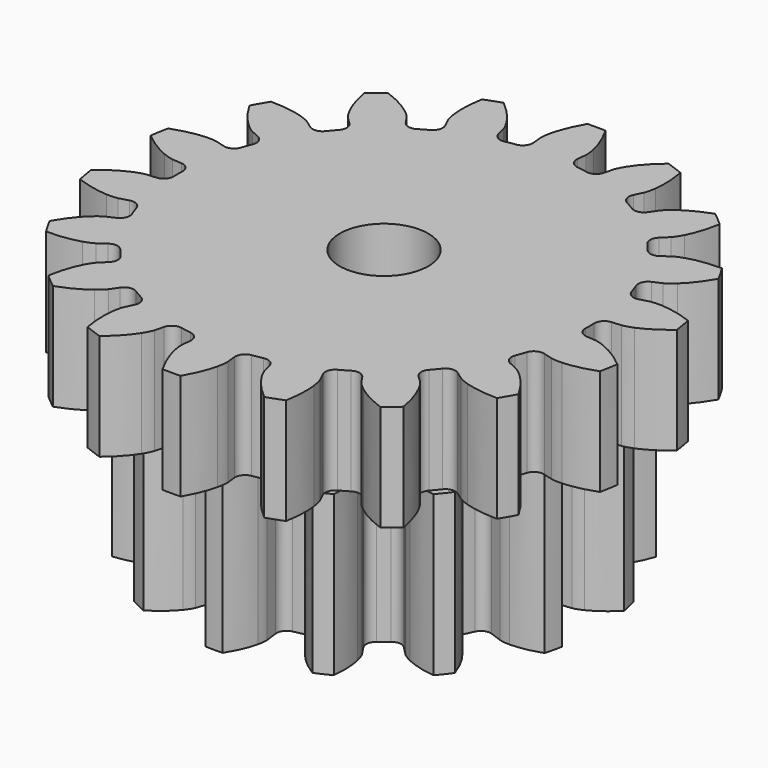
from build123d import *

# Parameters (mm, degrees)
PAD044_DEPTH            = 6
PAD045_DEPTH            = 9
SKETCH091_R             = 2.5
POCKET013_DEPTH         = 15.001
BODY022_PLACEMENT_ANGLE = 90


with BuildPart() as part:
    # Sketch089 → Pad044 (new body)
    with BuildSketch(Plane.XY):
        with BuildLine():
            Line((12.111023, -1.241717), (12.645761, -1.295402))
            add(Edge.make_bspline(
                [(12.645761, -1.295402), (12.714302, -1.298033), (12.920518, -1.29727), (13.264938, -1.221824)],
                knots=[0, 0, 0, 0, 1, 1, 1, 1], degree=3))
            add(Edge.make_bspline(
                [(13.264938, -1.221824), (13.676607, -1.130119), (14.26795, -0.932555), (14.993012, -0.510488)],
                knots=[0, 0, 0, 0, 1, 1, 1, 1], degree=3))
            ThreePointArc((14.993012, -0.510488), (15.001701, 0), (14.993012, 0.510488))
            add(Edge.make_bspline(
                [(14.993012, 0.510488), (14.26795, 0.932555), (13.676607, 1.130119), (13.264938, 1.221824)],
                knots=[0, 0, 0, 0, 1, 1, 1, 1], degree=3))
            add(Edge.make_bspline(
                [(13.264938, 1.221824), (12.920518, 1.29727), (12.714302, 1.298033), (12.645761, 1.295402)],
                knots=[0, 0, 0, 0, 1, 1, 1, 1], degree=3))
            Line((12.645761, 1.295402), (12.111023, 1.241717))
            ThreePointArc((12.111023, 1.241717), (11.708936, 1.356787), (11.497414, 1.717583))
            ThreePointArc((11.497414, 1.717583), (11.44839, 2.01866), (11.391483, 2.318347))
            ThreePointArc((11.391483, 2.318347), (11.46685, 2.729729), (11.805332, 2.975381))
            Line((11.805332, 2.975381), (12.326182, 3.107825))
            add(Edge.make_bspline(
                [(12.326182, 3.107825), (12.391489, 3.128796), (12.585008, 3.200042), (12.882853, 3.388737)],
                knots=[0, 0, 0, 0, 1, 1, 1, 1], degree=3))
            add(Edge.make_bspline(
                [(12.882853, 3.388737), (13.238331, 3.615711), (13.72644, 4.003611), (14.26342, 4.64821)],
                knots=[0, 0, 0, 0, 1, 1, 1, 1], degree=3))
            ThreePointArc((14.26342, 4.64821), (14.096988, 5.130884), (13.914226, 5.607614))
            add(Edge.make_bspline(
                [(13.914226, 5.607614), (13.088535, 5.756242), (12.465284, 5.73964), (12.047076, 5.685015)],
                knots=[0, 0, 0, 0, 1, 1, 1, 1], degree=3))
            add(Edge.make_bspline(
                [(12.047076, 5.685015), (11.697623, 5.638113), (11.503582, 5.568299), (11.440074, 5.542385)],
                knots=[0, 0, 0, 0, 1, 1, 1, 1], degree=3))
            Line((11.440074, 5.542385), (10.955947, 5.309046))
            ThreePointArc((10.955947, 5.309046), (10.538753, 5.279655), (10.216587, 5.546347))
            ThreePointArc((10.216587, 5.546347), (10.067545, 5.8125), (9.911571, 6.074651))
            ThreePointArc((9.911571, 6.074651), (9.841692, 6.487), (10.075743, 6.833605))
            Line((10.075743, 6.833605), (10.519883, 7.136202))
            add(Edge.make_bspline(
                [(10.519883, 7.136202), (10.57408, 7.178245), (10.73156, 7.311383), (10.946905, 7.590566)],
                knots=[0, 0, 0, 0, 1, 1, 1, 1], degree=3))
            add(Edge.make_bspline(
                [(10.946905, 7.590566), (11.203316, 7.925433), (11.529319, 8.456883), (11.813449, 9.246266)],
                knots=[0, 0, 0, 0, 1, 1, 1, 1], degree=3))
            ThreePointArc((11.813449, 9.246266), (11.49197, 9.642908), (11.157178, 10.028379))
            add(Edge.make_bspline(
                [(11.157178, 10.028379), (10.330449, 9.885641), (9.750463, 9.656875), (9.376159, 9.462509)],
                knots=[0, 0, 0, 0, 1, 1, 1, 1], degree=3))
            add(Edge.make_bspline(
                [(9.376159, 9.462509), (9.063822, 9.298916), (8.905361, 9.166947), (8.854546, 9.120874)],
                knots=[0, 0, 0, 0, 1, 1, 1, 1], degree=3))
            Line((8.854546, 9.120874), (8.479422, 8.736026))
            ThreePointArc((8.479422, 8.736026), (8.09744, 8.565718), (7.703489, 8.70614))
            ThreePointArc((7.703489, 8.70614), (7.472406, 8.905267), (7.236177, 9.098261))
            ThreePointArc((7.236177, 9.098261), (7.02948, 9.461843), (7.13087, 9.867595))
            Line((7.13087, 9.867595), (7.444732, 10.303849))
            add(Edge.make_bspline(
                [(7.444732, 10.303849), (7.48128, 10.361892), (7.583728, 10.540862), (7.690599, 10.876861)],
                knots=[0, 0, 0, 0, 1, 1, 1, 1], degree=3))
            add(Edge.make_bspline(
                [(7.690599, 10.876861), (7.817015, 11.27923), (7.941592, 11.89013), (7.938602, 12.729085)],
                knots=[0, 0, 0, 0, 1, 1, 1, 1], degree=3))
            ThreePointArc((7.938602, 12.729085), (7.500851, 12.991854), (7.05441, 13.239573))
            add(Edge.make_bspline(
                [(7.05441, 13.239573), (6.326359, 12.822685), (5.859592, 12.409349), (5.574338, 12.098685)],
                knots=[0, 0, 0, 0, 1, 1, 1, 1], degree=3))
            add(Edge.make_bspline(
                [(5.574338, 12.098685), (5.33679, 11.838132), (5.233022, 11.659925), (5.201029, 11.599251)],
                knots=[0, 0, 0, 0, 1, 1, 1, 1], degree=3))
            Line((5.201029, 11.599251), (4.980153, 11.109313))
            ThreePointArc((4.980153, 11.109313), (4.679456, 10.81863), (4.261237, 10.815844))
            ThreePointArc((4.261237, 10.815844), (3.975984, 10.923927), (3.687994, 11.024488))
            ThreePointArc((3.687994, 11.024488), (3.36941, 11.295448), (3.32591, 11.711408))
            Line((3.32591, 11.711408), (3.471636, 12.228699))
            add(Edge.make_bspline(
                [(3.471636, 12.228699), (3.486128, 12.295742), (3.521186, 12.498958), (3.506694, 12.851246)],
                knots=[0, 0, 0, 0, 1, 1, 1, 1], degree=3))
            add(Edge.make_bspline(
                [(3.506694, 12.851246), (3.487868, 13.272586), (3.395991, 13.889252), (3.106242, 14.676589)],
                knots=[0, 0, 0, 0, 1, 1, 1, 1], degree=3))
            ThreePointArc((3.106242, 14.676589), (2.605018, 14.773792), (2.100777, 14.85388))
            add(Edge.make_bspline(
                [(2.100777, 14.85388), (1.559216, 14.213125), (1.261968, 13.665072), (1.100171, 13.275581)],
                knots=[0, 0, 0, 0, 1, 1, 1, 1], degree=3))
            add(Edge.make_bspline(
                [(1.100171, 13.275581), (0.966063, 12.949495), (0.929503, 12.746544), (0.920191, 12.678587)],
                knots=[0, 0, 0, 0, 1, 1, 1, 1], degree=3))
            Line((0.920191, 12.678587), (0.880204, 12.142652))
            ThreePointArc((0.880204, 12.142652), (0.697061, 11.766655), (0.305016, 11.620998))
            ThreePointArc((0.305016, 11.620998), (0, 11.625), (-0.305016, 11.620998))
            ThreePointArc((-0.305016, 11.620998), (-0.697061, 11.766655), (-0.880204, 12.142652))
            Line((-0.880204, 12.142652), (-0.920191, 12.678587))
            add(Edge.make_bspline(
                [(-0.920191, 12.678587), (-0.929503, 12.746544), (-0.966063, 12.949495), (-1.100171, 13.275581)],
                knots=[0, 0, 0, 0, 1, 1, 1, 1], degree=3))
            add(Edge.make_bspline(
                [(-1.100171, 13.275581), (-1.261968, 13.665072), (-1.559216, 14.213125), (-2.100777, 14.85388)],
                knots=[0, 0, 0, 0, 1, 1, 1, 1], degree=3))
            ThreePointArc((-2.100777, 14.85388), (-2.605018, 14.773792), (-3.106242, 14.676589))
            add(Edge.make_bspline(
                [(-3.106242, 14.676589), (-3.395991, 13.889252), (-3.487868, 13.272586), (-3.506694, 12.851246)],
                knots=[0, 0, 0, 0, 1, 1, 1, 1], degree=3))
            add(Edge.make_bspline(
                [(-3.506694, 12.851246), (-3.521186, 12.498958), (-3.486128, 12.295742), (-3.471636, 12.228699)],
                knots=[0, 0, 0, 0, 1, 1, 1, 1], degree=3))
            Line((-3.471636, 12.228699), (-3.32591, 11.711408))
            ThreePointArc((-3.32591, 11.711408), (-3.36941, 11.295448), (-3.687994, 11.024488))
            ThreePointArc((-3.687994, 11.024488), (-3.975984, 10.923927), (-4.261237, 10.815844))
            ThreePointArc((-4.261237, 10.815844), (-4.679456, 10.81863), (-4.980153, 11.109313))
            Line((-4.980153, 11.109313), (-5.201029, 11.599251))
            add(Edge.make_bspline(
                [(-5.201029, 11.599251), (-5.233022, 11.659925), (-5.33679, 11.838132), (-5.574338, 12.098685)],
                knots=[0, 0, 0, 0, 1, 1, 1, 1], degree=3))
            add(Edge.make_bspline(
                [(-5.574338, 12.098685), (-5.859592, 12.409349), (-6.326359, 12.822685), (-7.05441, 13.239573)],
                knots=[0, 0, 0, 0, 1, 1, 1, 1], degree=3))
            ThreePointArc((-7.05441, 13.239573), (-7.500851, 12.991854), (-7.938602, 12.729085))
            add(Edge.make_bspline(
                [(-7.938602, 12.729085), (-7.941592, 11.89013), (-7.817015, 11.27923), (-7.690599, 10.876861)],
                knots=[0, 0, 0, 0, 1, 1, 1, 1], degree=3))
            add(Edge.make_bspline(
                [(-7.690599, 10.876861), (-7.583728, 10.540862), (-7.48128, 10.361892), (-7.444732, 10.303849)],
                knots=[0, 0, 0, 0, 1, 1, 1, 1], degree=3))
            Line((-7.444732, 10.303849), (-7.13087, 9.867595))
            ThreePointArc((-7.13087, 9.867595), (-7.02948, 9.461843), (-7.236177, 9.098261))
            ThreePointArc((-7.236177, 9.098261), (-7.472406, 8.905267), (-7.703489, 8.70614))
            ThreePointArc((-7.703489, 8.70614), (-8.09744, 8.565718), (-8.479422, 8.736026))
            Line((-8.479422, 8.736026), (-8.854546, 9.120874))
            add(Edge.make_bspline(
                [(-8.854546, 9.120874), (-8.905361, 9.166947), (-9.063822, 9.298916), (-9.376159, 9.462509)],
                knots=[0, 0, 0, 0, 1, 1, 1, 1], degree=3))
            add(Edge.make_bspline(
                [(-9.376159, 9.462509), (-9.750463, 9.656875), (-10.330449, 9.885641), (-11.157178, 10.028379)],
                knots=[0, 0, 0, 0, 1, 1, 1, 1], degree=3))
            ThreePointArc((-11.157178, 10.028379), (-11.49197, 9.642908), (-11.813449, 9.246266))
            add(Edge.make_bspline(
                [(-11.813449, 9.246266), (-11.529319, 8.456883), (-11.203316, 7.925433), (-10.946905, 7.590566)],
                knots=[0, 0, 0, 0, 1, 1, 1, 1], degree=3))
            add(Edge.make_bspline(
                [(-10.946905, 7.590566), (-10.73156, 7.311383), (-10.57408, 7.178245), (-10.519883, 7.136202)],
                knots=[0, 0, 0, 0, 1, 1, 1, 1], degree=3))
            Line((-10.519883, 7.136202), (-10.075743, 6.833605))
            ThreePointArc((-10.075743, 6.833605), (-9.841692, 6.487), (-9.911571, 6.074651))
            ThreePointArc((-9.911571, 6.074651), (-10.067545, 5.8125), (-10.216587, 5.546347))
            ThreePointArc((-10.216587, 5.546347), (-10.538753, 5.279655), (-10.955947, 5.309046))
            Line((-10.955947, 5.309046), (-11.440074, 5.542385))
            add(Edge.make_bspline(
                [(-11.440074, 5.542385), (-11.503582, 5.568299), (-11.697623, 5.638113), (-12.047076, 5.685015)],
                knots=[0, 0, 0, 0, 1, 1, 1, 1], degree=3))
            add(Edge.make_bspline(
                [(-12.047076, 5.685015), (-12.465284, 5.73964), (-13.088535, 5.756242), (-13.914226, 5.607614)],
                knots=[0, 0, 0, 0, 1, 1, 1, 1], degree=3))
            ThreePointArc((-13.914226, 5.607614), (-14.096988, 5.130884), (-14.26342, 4.64821))
            add(Edge.make_bspline(
                [(-14.26342, 4.64821), (-13.72644, 4.003611), (-13.238331, 3.615711), (-12.882853, 3.388737)],
                knots=[0, 0, 0, 0, 1, 1, 1, 1], degree=3))
            add(Edge.make_bspline(
                [(-12.882853, 3.388737), (-12.585008, 3.200042), (-12.391489, 3.128796), (-12.326182, 3.107825)],
                knots=[0, 0, 0, 0, 1, 1, 1, 1], degree=3))
            Line((-12.326182, 3.107825), (-11.805332, 2.975381))
            ThreePointArc((-11.805332, 2.975381), (-11.46685, 2.729729), (-11.391483, 2.318347))
            ThreePointArc((-11.391483, 2.318347), (-11.44839, 2.01866), (-11.497414, 1.717583))
            ThreePointArc((-11.497414, 1.717583), (-11.708936, 1.356787), (-12.111023, 1.241717))
            Line((-12.111023, 1.241717), (-12.645761, 1.295402))
            add(Edge.make_bspline(
                [(-12.645761, 1.295402), (-12.714302, 1.298033), (-12.920518, 1.29727), (-13.264938, 1.221824)],
                knots=[0, 0, 0, 0, 1, 1, 1, 1], degree=3))
            add(Edge.make_bspline(
                [(-13.264938, 1.221824), (-13.676607, 1.130119), (-14.26795, 0.932555), (-14.993012, 0.510488)],
                knots=[0, 0, 0, 0, 1, 1, 1, 1], degree=3))
            ThreePointArc((-14.993012, 0.510488), (-15.001701, 0), (-14.993012, -0.510488))
            add(Edge.make_bspline(
                [(-14.993012, -0.510488), (-14.26795, -0.932555), (-13.676607, -1.130119), (-13.264938, -1.221824)],
                knots=[0, 0, 0, 0, 1, 1, 1, 1], degree=3))
            add(Edge.make_bspline(
                [(-13.264938, -1.221824), (-12.920518, -1.29727), (-12.714302, -1.298033), (-12.645761, -1.295402)],
                knots=[0, 0, 0, 0, 1, 1, 1, 1], degree=3))
            Line((-12.645761, -1.295402), (-12.111023, -1.241717))
            ThreePointArc((-12.111023, -1.241717), (-11.708936, -1.356787), (-11.497414, -1.717583))
            ThreePointArc((-11.497414, -1.717583), (-11.44839, -2.01866), (-11.391483, -2.318347))
            ThreePointArc((-11.391483, -2.318347), (-11.46685, -2.729729), (-11.805332, -2.975381))
            Line((-11.805332, -2.975381), (-12.326182, -3.107825))
            add(Edge.make_bspline(
                [(-12.326182, -3.107825), (-12.391489, -3.128796), (-12.585008, -3.200042), (-12.882853, -3.388737)],
                knots=[0, 0, 0, 0, 1, 1, 1, 1], degree=3))
            add(Edge.make_bspline(
                [(-12.882853, -3.388737), (-13.238331, -3.615711), (-13.72644, -4.003611), (-14.26342, -4.64821)],
                knots=[0, 0, 0, 0, 1, 1, 1, 1], degree=3))
            ThreePointArc((-14.26342, -4.64821), (-14.096988, -5.130884), (-13.914226, -5.607614))
            add(Edge.make_bspline(
                [(-13.914226, -5.607614), (-13.088535, -5.756242), (-12.465284, -5.73964), (-12.047076, -5.685015)],
                knots=[0, 0, 0, 0, 1, 1, 1, 1], degree=3))
            add(Edge.make_bspline(
                [(-12.047076, -5.685015), (-11.697623, -5.638113), (-11.503582, -5.568299), (-11.440074, -5.542385)],
                knots=[0, 0, 0, 0, 1, 1, 1, 1], degree=3))
            Line((-11.440074, -5.542385), (-10.955947, -5.309046))
            ThreePointArc((-10.955947, -5.309046), (-10.538753, -5.279655), (-10.216587, -5.546347))
            ThreePointArc((-10.216587, -5.546347), (-10.067545, -5.8125), (-9.911571, -6.074651))
            ThreePointArc((-9.911571, -6.074651), (-9.841692, -6.487), (-10.075743, -6.833605))
            Line((-10.075743, -6.833605), (-10.519883, -7.136202))
            add(Edge.make_bspline(
                [(-10.519883, -7.136202), (-10.57408, -7.178245), (-10.73156, -7.311383), (-10.946905, -7.590566)],
                knots=[0, 0, 0, 0, 1, 1, 1, 1], degree=3))
            add(Edge.make_bspline(
                [(-10.946905, -7.590566), (-11.203316, -7.925433), (-11.529319, -8.456883), (-11.813449, -9.246266)],
                knots=[0, 0, 0, 0, 1, 1, 1, 1], degree=3))
            ThreePointArc((-11.813449, -9.246266), (-11.49197, -9.642908), (-11.157178, -10.028379))
            add(Edge.make_bspline(
                [(-11.157178, -10.028379), (-10.330449, -9.885641), (-9.750463, -9.656875), (-9.376159, -9.462509)],
                knots=[0, 0, 0, 0, 1, 1, 1, 1], degree=3))
            add(Edge.make_bspline(
                [(-9.376159, -9.462509), (-9.063822, -9.298916), (-8.905361, -9.166947), (-8.854546, -9.120874)],
                knots=[0, 0, 0, 0, 1, 1, 1, 1], degree=3))
            Line((-8.854546, -9.120874), (-8.479422, -8.736026))
            ThreePointArc((-8.479422, -8.736026), (-8.09744, -8.565718), (-7.703489, -8.70614))
            ThreePointArc((-7.703489, -8.70614), (-7.472406, -8.905267), (-7.236177, -9.098261))
            ThreePointArc((-7.236177, -9.098261), (-7.02948, -9.461843), (-7.13087, -9.867595))
            Line((-7.13087, -9.867595), (-7.444732, -10.303849))
            add(Edge.make_bspline(
                [(-7.444732, -10.303849), (-7.48128, -10.361892), (-7.583728, -10.540862), (-7.690599, -10.876861)],
                knots=[0, 0, 0, 0, 1, 1, 1, 1], degree=3))
            add(Edge.make_bspline(
                [(-7.690599, -10.876861), (-7.817015, -11.27923), (-7.941592, -11.89013), (-7.938602, -12.729085)],
                knots=[0, 0, 0, 0, 1, 1, 1, 1], degree=3))
            ThreePointArc((-7.938602, -12.729085), (-7.500851, -12.991854), (-7.05441, -13.239573))
            add(Edge.make_bspline(
                [(-7.05441, -13.239573), (-6.326359, -12.822685), (-5.859592, -12.409349), (-5.574338, -12.098685)],
                knots=[0, 0, 0, 0, 1, 1, 1, 1], degree=3))
            add(Edge.make_bspline(
                [(-5.574338, -12.098685), (-5.33679, -11.838132), (-5.233022, -11.659925), (-5.201029, -11.599251)],
                knots=[0, 0, 0, 0, 1, 1, 1, 1], degree=3))
            Line((-5.201029, -11.599251), (-4.980153, -11.109313))
            ThreePointArc((-4.980153, -11.109313), (-4.679456, -10.81863), (-4.261237, -10.815844))
            ThreePointArc((-4.261237, -10.815844), (-3.975984, -10.923927), (-3.687994, -11.024488))
            ThreePointArc((-3.687994, -11.024488), (-3.36941, -11.295448), (-3.32591, -11.711408))
            Line((-3.32591, -11.711408), (-3.471636, -12.228699))
            add(Edge.make_bspline(
                [(-3.471636, -12.228699), (-3.486128, -12.295742), (-3.521186, -12.498958), (-3.506694, -12.851246)],
                knots=[0, 0, 0, 0, 1, 1, 1, 1], degree=3))
            add(Edge.make_bspline(
                [(-3.506694, -12.851246), (-3.487868, -13.272586), (-3.395991, -13.889252), (-3.106242, -14.676589)],
                knots=[0, 0, 0, 0, 1, 1, 1, 1], degree=3))
            ThreePointArc((-3.106242, -14.676589), (-2.605018, -14.773792), (-2.100777, -14.85388))
            add(Edge.make_bspline(
                [(-2.100777, -14.85388), (-1.559216, -14.213125), (-1.261968, -13.665072), (-1.100171, -13.275581)],
                knots=[0, 0, 0, 0, 1, 1, 1, 1], degree=3))
            add(Edge.make_bspline(
                [(-1.100171, -13.275581), (-0.966063, -12.949495), (-0.929503, -12.746544), (-0.920191, -12.678587)],
                knots=[0, 0, 0, 0, 1, 1, 1, 1], degree=3))
            Line((-0.920191, -12.678587), (-0.880204, -12.142652))
            ThreePointArc((-0.880204, -12.142652), (-0.697061, -11.766655), (-0.305016, -11.620998))
            ThreePointArc((-0.305016, -11.620998), (0, -11.625), (0.305016, -11.620998))
            ThreePointArc((0.305016, -11.620998), (0.697061, -11.766655), (0.880204, -12.142652))
            Line((0.880204, -12.142652), (0.920191, -12.678587))
            add(Edge.make_bspline(
                [(0.920191, -12.678587), (0.929503, -12.746544), (0.966063, -12.949495), (1.100171, -13.275581)],
                knots=[0, 0, 0, 0, 1, 1, 1, 1], degree=3))
            add(Edge.make_bspline(
                [(1.100171, -13.275581), (1.261968, -13.665072), (1.559216, -14.213125), (2.100777, -14.85388)],
                knots=[0, 0, 0, 0, 1, 1, 1, 1], degree=3))
            ThreePointArc((2.100777, -14.85388), (2.605018, -14.773792), (3.106242, -14.676589))
            add(Edge.make_bspline(
                [(3.106242, -14.676589), (3.395991, -13.889252), (3.487868, -13.272586), (3.506694, -12.851246)],
                knots=[0, 0, 0, 0, 1, 1, 1, 1], degree=3))
            add(Edge.make_bspline(
                [(3.506694, -12.851246), (3.521186, -12.498958), (3.486128, -12.295742), (3.471636, -12.228699)],
                knots=[0, 0, 0, 0, 1, 1, 1, 1], degree=3))
            Line((3.471636, -12.228699), (3.32591, -11.711408))
            ThreePointArc((3.32591, -11.711408), (3.36941, -11.295448), (3.687994, -11.024488))
            ThreePointArc((3.687994, -11.024488), (3.975984, -10.923927), (4.261237, -10.815844))
            ThreePointArc((4.261237, -10.815844), (4.679456, -10.81863), (4.980153, -11.109313))
            Line((4.980153, -11.109313), (5.201029, -11.599251))
            add(Edge.make_bspline(
                [(5.201029, -11.599251), (5.233022, -11.659925), (5.33679, -11.838132), (5.574338, -12.098685)],
                knots=[0, 0, 0, 0, 1, 1, 1, 1], degree=3))
            add(Edge.make_bspline(
                [(5.574338, -12.098685), (5.859592, -12.409349), (6.326359, -12.822685), (7.05441, -13.239573)],
                knots=[0, 0, 0, 0, 1, 1, 1, 1], degree=3))
            ThreePointArc((7.05441, -13.239573), (7.500851, -12.991854), (7.938602, -12.729085))
            add(Edge.make_bspline(
                [(7.938602, -12.729085), (7.941592, -11.89013), (7.817015, -11.27923), (7.690599, -10.876861)],
                knots=[0, 0, 0, 0, 1, 1, 1, 1], degree=3))
            add(Edge.make_bspline(
                [(7.690599, -10.876861), (7.583728, -10.540862), (7.48128, -10.361892), (7.444732, -10.303849)],
                knots=[0, 0, 0, 0, 1, 1, 1, 1], degree=3))
            Line((7.444732, -10.303849), (7.13087, -9.867595))
            ThreePointArc((7.13087, -9.867595), (7.02948, -9.461843), (7.236177, -9.098261))
            ThreePointArc((7.236177, -9.098261), (7.472406, -8.905267), (7.703489, -8.70614))
            ThreePointArc((7.703489, -8.70614), (8.09744, -8.565718), (8.479422, -8.736026))
            Line((8.479422, -8.736026), (8.854546, -9.120874))
            add(Edge.make_bspline(
                [(8.854546, -9.120874), (8.905361, -9.166947), (9.063822, -9.298916), (9.376159, -9.462509)],
                knots=[0, 0, 0, 0, 1, 1, 1, 1], degree=3))
            add(Edge.make_bspline(
                [(9.376159, -9.462509), (9.750463, -9.656875), (10.330449, -9.885641), (11.157178, -10.028379)],
                knots=[0, 0, 0, 0, 1, 1, 1, 1], degree=3))
            ThreePointArc((11.157178, -10.028379), (11.49197, -9.642908), (11.813449, -9.246266))
            add(Edge.make_bspline(
                [(11.813449, -9.246266), (11.529319, -8.456883), (11.203316, -7.925433), (10.946905, -7.590566)],
                knots=[0, 0, 0, 0, 1, 1, 1, 1], degree=3))
            add(Edge.make_bspline(
                [(10.946905, -7.590566), (10.73156, -7.311383), (10.57408, -7.178245), (10.519883, -7.136202)],
                knots=[0, 0, 0, 0, 1, 1, 1, 1], degree=3))
            Line((10.519883, -7.136202), (10.075743, -6.833605))
            ThreePointArc((10.075743, -6.833605), (9.841692, -6.487), (9.911571, -6.074651))
            ThreePointArc((9.911571, -6.074651), (10.067545, -5.8125), (10.216587, -5.546347))
            ThreePointArc((10.216587, -5.546347), (10.538753, -5.279655), (10.955947, -5.309046))
            Line((10.955947, -5.309046), (11.440074, -5.542385))
            add(Edge.make_bspline(
                [(11.440074, -5.542385), (11.503582, -5.568299), (11.697623, -5.638113), (12.047076, -5.685015)],
                knots=[0, 0, 0, 0, 1, 1, 1, 1], degree=3))
            add(Edge.make_bspline(
                [(12.047076, -5.685015), (12.465284, -5.73964), (13.088535, -5.756242), (13.914226, -5.607614)],
                knots=[0, 0, 0, 0, 1, 1, 1, 1], degree=3))
            ThreePointArc((13.914226, -5.607614), (14.096988, -5.130884), (14.26342, -4.64821))
            add(Edge.make_bspline(
                [(14.26342, -4.64821), (13.72644, -4.003611), (13.238331, -3.615711), (12.882853, -3.388737)],
                knots=[0, 0, 0, 0, 1, 1, 1, 1], degree=3))
            add(Edge.make_bspline(
                [(12.882853, -3.388737), (12.585008, -3.200042), (12.391489, -3.128796), (12.326182, -3.107825)],
                knots=[0, 0, 0, 0, 1, 1, 1, 1], degree=3))
            Line((12.326182, -3.107825), (11.805332, -2.975381))
            ThreePointArc((11.805332, -2.975381), (11.46685, -2.729729), (11.391483, -2.318347))
            ThreePointArc((11.391483, -2.318347), (11.44839, -2.01866), (11.497414, -1.717583))
            ThreePointArc((11.497414, -1.717583), (11.708936, -1.356787), (12.111023, -1.241717))
        make_face()
    extrude(amount=PAD044_DEPTH)

    # Sketch090 → Pad045 (join)
    with BuildSketch(Plane.XY):
        with BuildLine():
            Line((9.096289, -1.162443), (9.811706, -1.252678))
            add(Edge.make_bspline(
                [(9.811706, -1.252678), (9.87581, -1.256332), (10.068436, -1.258424), (10.391274, -1.185875)],
                knots=[0, 0, 0, 0, 1, 1, 1, 1], degree=3))
            add(Edge.make_bspline(
                [(10.391274, -1.185875), (10.776249, -1.097479), (11.326447, -0.903676), (11.992147, -0.48357)],
                knots=[0, 0, 0, 0, 1, 1, 1, 1], degree=3))
            ThreePointArc((11.992147, -0.48357), (12.001894, 0), (11.992147, 0.48357))
            add(Edge.make_bspline(
                [(11.992147, 0.48357), (11.326447, 0.903676), (10.776249, 1.097479), (10.391274, 1.185875)],
                knots=[0, 0, 0, 0, 1, 1, 1, 1], degree=3))
            add(Edge.make_bspline(
                [(10.391274, 1.185875), (10.068436, 1.258424), (9.87581, 1.256332), (9.811706, 1.252678)],
                knots=[0, 0, 0, 0, 1, 1, 1, 1], degree=3))
            Line((9.811706, 1.252678), (9.096289, 1.162443))
            ThreePointArc((9.096289, 1.162443), (8.695055, 1.264826), (8.47262, 1.614103))
            ThreePointArc((8.47262, 1.614103), (8.408753, 1.919243), (8.3339, 2.221876))
            ThreePointArc((8.3339, 2.221876), (8.382761, 2.633074), (8.699838, 2.899407))
            Line((8.699838, 2.899407), (9.383559, 3.128515))
            add(Edge.make_bspline(
                [(9.383559, 3.128515), (9.442899, 3.153037), (9.617357, 3.23473), (9.876747, 3.440168)],
                knots=[0, 0, 0, 0, 1, 1, 1, 1], degree=3))
            add(Edge.make_bspline(
                [(9.876747, 3.440168), (10.185243, 3.686845), (10.596867, 4.100177), (11.014364, 4.767516)],
                knots=[0, 0, 0, 0, 1, 1, 1, 1], degree=3))
            ThreePointArc((11.014364, 4.767516), (10.813333, 5.207427), (10.594738, 5.638879))
            add(Edge.make_bspline(
                [(10.594738, 5.638879), (9.812686, 5.728546), (9.232886, 5.664434), (8.847683, 5.577042)],
                knots=[0, 0, 0, 0, 1, 1, 1, 1], degree=3))
            add(Edge.make_bspline(
                [(8.847683, 5.577042), (8.525338, 5.502331), (8.352695, 5.416869), (8.296525, 5.385764)],
                knots=[0, 0, 0, 0, 1, 1, 1, 1], degree=3))
            Line((8.296525, 5.385764), (7.691108, 4.994057))
            ThreePointArc((7.691108, 4.994057), (7.285186, 4.912211), (6.933234, 5.130389))
            ThreePointArc((6.933234, 5.130389), (6.743297, 5.3776), (6.544549, 5.617785))
            ThreePointArc((6.544549, 5.617785), (6.410158, 6.009462), (6.580278, 6.386994))
            Line((6.580278, 6.386994), (7.096882, 6.890069))
            add(Edge.make_bspline(
                [(7.096882, 6.890069), (7.139707, 6.937909), (7.261442, 7.087206), (7.406008, 7.384844)],
                knots=[0, 0, 0, 0, 1, 1, 1, 1], degree=3))
            add(Edge.make_bspline(
                [(7.406008, 7.384844), (7.576925, 7.740943), (7.768447, 8.29194), (7.855052, 9.074337)],
                knots=[0, 0, 0, 0, 1, 1, 1, 1], degree=3))
            ThreePointArc((7.855052, 9.074337), (7.483058, 9.383459), (7.098911, 9.677339))
            add(Edge.make_bspline(
                [(7.098911, 9.677339), (6.355402, 9.418806), (5.860837, 9.109478), (5.551699, 8.863607)],
                knots=[0, 0, 0, 0, 1, 1, 1, 1], degree=3))
            add(Edge.make_bspline(
                [(5.551699, 8.863607), (5.293692, 8.656435), (5.175227, 8.504529), (5.138115, 8.452133)],
                knots=[0, 0, 0, 0, 1, 1, 1, 1], degree=3))
            Line((5.138115, 8.452133), (4.762609, 7.836536))
            ThreePointArc((4.762609, 7.836536), (4.432397, 7.586673), (4.020636, 7.630538))
            ThreePointArc((4.020636, 7.630538), (3.742247, 7.770856), (3.458969, 7.901023))
            ThreePointArc((3.458969, 7.901023), (3.167945, 8.195601), (3.157412, 8.609558))
            Line((3.157412, 8.609558), (3.404581, 9.286959))
            add(Edge.make_bspline(
                [(3.404581, 9.286959), (3.422408, 9.348642), (3.46731, 9.535974), (3.468419, 9.866861)],
                knots=[0, 0, 0, 0, 1, 1, 1, 1], degree=3))
            add(Edge.make_bspline(
                [(3.468419, 9.866861), (3.467904, 10.261854), (3.401391, 10.841383), (3.13995, 11.583874)],
                knots=[0, 0, 0, 0, 1, 1, 1, 1], degree=3))
            ThreePointArc((3.13995, 11.583874), (2.670673, 11.700981), (2.197058, 11.799083))
            add(Edge.make_bspline(
                [(2.197058, 11.799083), (1.639352, 11.243557), (1.327978, 10.750278), (1.156133, 10.394626)],
                knots=[0, 0, 0, 0, 1, 1, 1, 1], degree=3))
            add(Edge.make_bspline(
                [(1.156133, 10.394626), (1.013565, 10.096025), (0.972741, 9.907763), (0.962039, 9.844453)],
                knots=[0, 0, 0, 0, 1, 1, 1, 1], degree=3))
            Line((0.962039, 9.844453), (0.890817, 9.126894))
            ThreePointArc((0.890817, 9.126894), (0.701718, 8.758502), (0.311702, 8.619366))
            ThreePointArc((0.311702, 8.619366), (0, 8.625), (-0.311702, 8.619366))
            ThreePointArc((-0.311702, 8.619366), (-0.701718, 8.758502), (-0.890817, 9.126894))
            Line((-0.890817, 9.126894), (-0.962039, 9.844453))
            add(Edge.make_bspline(
                [(-0.962039, 9.844453), (-0.972741, 9.907763), (-1.013565, 10.096025), (-1.156133, 10.394626)],
                knots=[0, 0, 0, 0, 1, 1, 1, 1], degree=3))
            add(Edge.make_bspline(
                [(-1.156133, 10.394626), (-1.327978, 10.750278), (-1.639352, 11.243557), (-2.197058, 11.799083)],
                knots=[0, 0, 0, 0, 1, 1, 1, 1], degree=3))
            ThreePointArc((-2.197058, 11.799083), (-2.670673, 11.700981), (-3.13995, 11.583874))
            add(Edge.make_bspline(
                [(-3.13995, 11.583874), (-3.401391, 10.841383), (-3.467904, 10.261854), (-3.468419, 9.866861)],
                knots=[0, 0, 0, 0, 1, 1, 1, 1], degree=3))
            add(Edge.make_bspline(
                [(-3.468419, 9.866861), (-3.46731, 9.535974), (-3.422408, 9.348642), (-3.404581, 9.286959)],
                knots=[0, 0, 0, 0, 1, 1, 1, 1], degree=3))
            Line((-3.404581, 9.286959), (-3.157412, 8.609558))
            ThreePointArc((-3.157412, 8.609558), (-3.167945, 8.195601), (-3.458969, 7.901023))
            ThreePointArc((-3.458969, 7.901023), (-3.742247, 7.770856), (-4.020636, 7.630538))
            ThreePointArc((-4.020636, 7.630538), (-4.432397, 7.586673), (-4.762609, 7.836536))
            Line((-4.762609, 7.836536), (-5.138115, 8.452133))
            add(Edge.make_bspline(
                [(-5.138115, 8.452133), (-5.175227, 8.504529), (-5.293692, 8.656435), (-5.551699, 8.863607)],
                knots=[0, 0, 0, 0, 1, 1, 1, 1], degree=3))
            add(Edge.make_bspline(
                [(-5.551699, 8.863607), (-5.860837, 9.109478), (-6.355402, 9.418806), (-7.098911, 9.677339)],
                knots=[0, 0, 0, 0, 1, 1, 1, 1], degree=3))
            ThreePointArc((-7.098911, 9.677339), (-7.483058, 9.383459), (-7.855052, 9.074337))
            add(Edge.make_bspline(
                [(-7.855052, 9.074337), (-7.768447, 8.29194), (-7.576925, 7.740943), (-7.406008, 7.384844)],
                knots=[0, 0, 0, 0, 1, 1, 1, 1], degree=3))
            add(Edge.make_bspline(
                [(-7.406008, 7.384844), (-7.261442, 7.087206), (-7.139707, 6.937909), (-7.096882, 6.890069)],
                knots=[0, 0, 0, 0, 1, 1, 1, 1], degree=3))
            Line((-7.096882, 6.890069), (-6.580278, 6.386994))
            ThreePointArc((-6.580278, 6.386994), (-6.410158, 6.009462), (-6.544549, 5.617785))
            ThreePointArc((-6.544549, 5.617785), (-6.743297, 5.3776), (-6.933234, 5.130389))
            ThreePointArc((-6.933234, 5.130389), (-7.285186, 4.912211), (-7.691108, 4.994057))
            Line((-7.691108, 4.994057), (-8.296525, 5.385764))
            add(Edge.make_bspline(
                [(-8.296525, 5.385764), (-8.352695, 5.416869), (-8.525338, 5.502331), (-8.847683, 5.577042)],
                knots=[0, 0, 0, 0, 1, 1, 1, 1], degree=3))
            add(Edge.make_bspline(
                [(-8.847683, 5.577042), (-9.232886, 5.664434), (-9.812686, 5.728546), (-10.594738, 5.638879)],
                knots=[0, 0, 0, 0, 1, 1, 1, 1], degree=3))
            ThreePointArc((-10.594738, 5.638879), (-10.813333, 5.207427), (-11.014364, 4.767516))
            add(Edge.make_bspline(
                [(-11.014364, 4.767516), (-10.596867, 4.100177), (-10.185243, 3.686845), (-9.876747, 3.440168)],
                knots=[0, 0, 0, 0, 1, 1, 1, 1], degree=3))
            add(Edge.make_bspline(
                [(-9.876747, 3.440168), (-9.617357, 3.23473), (-9.442899, 3.153037), (-9.383559, 3.128515)],
                knots=[0, 0, 0, 0, 1, 1, 1, 1], degree=3))
            Line((-9.383559, 3.128515), (-8.699838, 2.899407))
            ThreePointArc((-8.699838, 2.899407), (-8.382761, 2.633074), (-8.3339, 2.221876))
            ThreePointArc((-8.3339, 2.221876), (-8.408753, 1.919243), (-8.47262, 1.614103))
            ThreePointArc((-8.47262, 1.614103), (-8.695055, 1.264826), (-9.096289, 1.162443))
            Line((-9.096289, 1.162443), (-9.811706, 1.252678))
            add(Edge.make_bspline(
                [(-9.811706, 1.252678), (-9.87581, 1.256332), (-10.068436, 1.258424), (-10.391274, 1.185875)],
                knots=[0, 0, 0, 0, 1, 1, 1, 1], degree=3))
            add(Edge.make_bspline(
                [(-10.391274, 1.185875), (-10.776249, 1.097479), (-11.326447, 0.903676), (-11.992147, 0.48357)],
                knots=[0, 0, 0, 0, 1, 1, 1, 1], degree=3))
            ThreePointArc((-11.992147, 0.48357), (-12.001894, 0), (-11.992147, -0.48357))
            add(Edge.make_bspline(
                [(-11.992147, -0.48357), (-11.326447, -0.903676), (-10.776249, -1.097479), (-10.391274, -1.185875)],
                knots=[0, 0, 0, 0, 1, 1, 1, 1], degree=3))
            add(Edge.make_bspline(
                [(-10.391274, -1.185875), (-10.068436, -1.258424), (-9.87581, -1.256332), (-9.811706, -1.252678)],
                knots=[0, 0, 0, 0, 1, 1, 1, 1], degree=3))
            Line((-9.811706, -1.252678), (-9.096289, -1.162443))
            ThreePointArc((-9.096289, -1.162443), (-8.695055, -1.264826), (-8.47262, -1.614103))
            ThreePointArc((-8.47262, -1.614103), (-8.408753, -1.919243), (-8.3339, -2.221876))
            ThreePointArc((-8.3339, -2.221876), (-8.382761, -2.633074), (-8.699838, -2.899407))
            Line((-8.699838, -2.899407), (-9.383559, -3.128515))
            add(Edge.make_bspline(
                [(-9.383559, -3.128515), (-9.442899, -3.153037), (-9.617357, -3.23473), (-9.876747, -3.440168)],
                knots=[0, 0, 0, 0, 1, 1, 1, 1], degree=3))
            add(Edge.make_bspline(
                [(-9.876747, -3.440168), (-10.185243, -3.686845), (-10.596867, -4.100177), (-11.014364, -4.767516)],
                knots=[0, 0, 0, 0, 1, 1, 1, 1], degree=3))
            ThreePointArc((-11.014364, -4.767516), (-10.813333, -5.207427), (-10.594738, -5.638879))
            add(Edge.make_bspline(
                [(-10.594738, -5.638879), (-9.812686, -5.728546), (-9.232886, -5.664434), (-8.847683, -5.577042)],
                knots=[0, 0, 0, 0, 1, 1, 1, 1], degree=3))
            add(Edge.make_bspline(
                [(-8.847683, -5.577042), (-8.525338, -5.502331), (-8.352695, -5.416869), (-8.296525, -5.385764)],
                knots=[0, 0, 0, 0, 1, 1, 1, 1], degree=3))
            Line((-8.296525, -5.385764), (-7.691108, -4.994057))
            ThreePointArc((-7.691108, -4.994057), (-7.285186, -4.912211), (-6.933234, -5.130389))
            ThreePointArc((-6.933234, -5.130389), (-6.743297, -5.3776), (-6.544549, -5.617785))
            ThreePointArc((-6.544549, -5.617785), (-6.410158, -6.009462), (-6.580278, -6.386994))
            Line((-6.580278, -6.386994), (-7.096882, -6.890069))
            add(Edge.make_bspline(
                [(-7.096882, -6.890069), (-7.139707, -6.937909), (-7.261442, -7.087206), (-7.406008, -7.384844)],
                knots=[0, 0, 0, 0, 1, 1, 1, 1], degree=3))
            add(Edge.make_bspline(
                [(-7.406008, -7.384844), (-7.576925, -7.740943), (-7.768447, -8.29194), (-7.855052, -9.074337)],
                knots=[0, 0, 0, 0, 1, 1, 1, 1], degree=3))
            ThreePointArc((-7.855052, -9.074337), (-7.483058, -9.383459), (-7.098911, -9.677339))
            add(Edge.make_bspline(
                [(-7.098911, -9.677339), (-6.355402, -9.418806), (-5.860837, -9.109478), (-5.551699, -8.863607)],
                knots=[0, 0, 0, 0, 1, 1, 1, 1], degree=3))
            add(Edge.make_bspline(
                [(-5.551699, -8.863607), (-5.293692, -8.656435), (-5.175227, -8.504529), (-5.138115, -8.452133)],
                knots=[0, 0, 0, 0, 1, 1, 1, 1], degree=3))
            Line((-5.138115, -8.452133), (-4.762609, -7.836536))
            ThreePointArc((-4.762609, -7.836536), (-4.432397, -7.586673), (-4.020636, -7.630538))
            ThreePointArc((-4.020636, -7.630538), (-3.742247, -7.770856), (-3.458969, -7.901023))
            ThreePointArc((-3.458969, -7.901023), (-3.167945, -8.195601), (-3.157412, -8.609558))
            Line((-3.157412, -8.609558), (-3.404581, -9.286959))
            add(Edge.make_bspline(
                [(-3.404581, -9.286959), (-3.422408, -9.348642), (-3.46731, -9.535974), (-3.468419, -9.866861)],
                knots=[0, 0, 0, 0, 1, 1, 1, 1], degree=3))
            add(Edge.make_bspline(
                [(-3.468419, -9.866861), (-3.467904, -10.261854), (-3.401391, -10.841383), (-3.13995, -11.583874)],
                knots=[0, 0, 0, 0, 1, 1, 1, 1], degree=3))
            ThreePointArc((-3.13995, -11.583874), (-2.670673, -11.700981), (-2.197058, -11.799083))
            add(Edge.make_bspline(
                [(-2.197058, -11.799083), (-1.639352, -11.243557), (-1.327978, -10.750278), (-1.156133, -10.394626)],
                knots=[0, 0, 0, 0, 1, 1, 1, 1], degree=3))
            add(Edge.make_bspline(
                [(-1.156133, -10.394626), (-1.013565, -10.096025), (-0.972741, -9.907763), (-0.962039, -9.844453)],
                knots=[0, 0, 0, 0, 1, 1, 1, 1], degree=3))
            Line((-0.962039, -9.844453), (-0.890817, -9.126894))
            ThreePointArc((-0.890817, -9.126894), (-0.701718, -8.758502), (-0.311702, -8.619366))
            ThreePointArc((-0.311702, -8.619366), (0, -8.625), (0.311702, -8.619366))
            ThreePointArc((0.311702, -8.619366), (0.701718, -8.758502), (0.890817, -9.126894))
            Line((0.890817, -9.126894), (0.962039, -9.844453))
            add(Edge.make_bspline(
                [(0.962039, -9.844453), (0.972741, -9.907763), (1.013565, -10.096025), (1.156133, -10.394626)],
                knots=[0, 0, 0, 0, 1, 1, 1, 1], degree=3))
            add(Edge.make_bspline(
                [(1.156133, -10.394626), (1.327978, -10.750278), (1.639352, -11.243557), (2.197058, -11.799083)],
                knots=[0, 0, 0, 0, 1, 1, 1, 1], degree=3))
            ThreePointArc((2.197058, -11.799083), (2.670673, -11.700981), (3.13995, -11.583874))
            add(Edge.make_bspline(
                [(3.13995, -11.583874), (3.401391, -10.841383), (3.467904, -10.261854), (3.468419, -9.866861)],
                knots=[0, 0, 0, 0, 1, 1, 1, 1], degree=3))
            add(Edge.make_bspline(
                [(3.468419, -9.866861), (3.46731, -9.535974), (3.422408, -9.348642), (3.404581, -9.286959)],
                knots=[0, 0, 0, 0, 1, 1, 1, 1], degree=3))
            Line((3.404581, -9.286959), (3.157412, -8.609558))
            ThreePointArc((3.157412, -8.609558), (3.167945, -8.195601), (3.458969, -7.901023))
            ThreePointArc((3.458969, -7.901023), (3.742247, -7.770856), (4.020636, -7.630538))
            ThreePointArc((4.020636, -7.630538), (4.432397, -7.586673), (4.762609, -7.836536))
            Line((4.762609, -7.836536), (5.138115, -8.452133))
            add(Edge.make_bspline(
                [(5.138115, -8.452133), (5.175227, -8.504529), (5.293692, -8.656435), (5.551699, -8.863607)],
                knots=[0, 0, 0, 0, 1, 1, 1, 1], degree=3))
            add(Edge.make_bspline(
                [(5.551699, -8.863607), (5.860837, -9.109478), (6.355402, -9.418806), (7.098911, -9.677339)],
                knots=[0, 0, 0, 0, 1, 1, 1, 1], degree=3))
            ThreePointArc((7.098911, -9.677339), (7.483058, -9.383459), (7.855052, -9.074337))
            add(Edge.make_bspline(
                [(7.855052, -9.074337), (7.768447, -8.29194), (7.576925, -7.740943), (7.406008, -7.384844)],
                knots=[0, 0, 0, 0, 1, 1, 1, 1], degree=3))
            add(Edge.make_bspline(
                [(7.406008, -7.384844), (7.261442, -7.087206), (7.139707, -6.937909), (7.096882, -6.890069)],
                knots=[0, 0, 0, 0, 1, 1, 1, 1], degree=3))
            Line((7.096882, -6.890069), (6.580278, -6.386994))
            ThreePointArc((6.580278, -6.386994), (6.410158, -6.009462), (6.544549, -5.617785))
            ThreePointArc((6.544549, -5.617785), (6.743297, -5.3776), (6.933234, -5.130389))
            ThreePointArc((6.933234, -5.130389), (7.285186, -4.912211), (7.691108, -4.994057))
            Line((7.691108, -4.994057), (8.296525, -5.385764))
            add(Edge.make_bspline(
                [(8.296525, -5.385764), (8.352695, -5.416869), (8.525338, -5.502331), (8.847683, -5.577042)],
                knots=[0, 0, 0, 0, 1, 1, 1, 1], degree=3))
            add(Edge.make_bspline(
                [(8.847683, -5.577042), (9.232886, -5.664434), (9.812686, -5.728546), (10.594738, -5.638879)],
                knots=[0, 0, 0, 0, 1, 1, 1, 1], degree=3))
            ThreePointArc((10.594738, -5.638879), (10.813333, -5.207427), (11.014364, -4.767516))
            add(Edge.make_bspline(
                [(11.014364, -4.767516), (10.596867, -4.100177), (10.185243, -3.686845), (9.876747, -3.440168)],
                knots=[0, 0, 0, 0, 1, 1, 1, 1], degree=3))
            add(Edge.make_bspline(
                [(9.876747, -3.440168), (9.617357, -3.23473), (9.442899, -3.153037), (9.383559, -3.128515)],
                knots=[0, 0, 0, 0, 1, 1, 1, 1], degree=3))
            Line((9.383559, -3.128515), (8.699838, -2.899407))
            ThreePointArc((8.699838, -2.899407), (8.382761, -2.633074), (8.3339, -2.221876))
            ThreePointArc((8.3339, -2.221876), (8.408753, -1.919243), (8.47262, -1.614103))
            ThreePointArc((8.47262, -1.614103), (8.695055, -1.264826), (9.096289, -1.162443))
        make_face()
    extrude(amount=-PAD045_DEPTH)

    # Sketch091 (on Face5 of Pad045) → Pocket013 (cut, through all)
    with BuildSketch(Plane.XY.offset(6)):
        Circle(SKETCH091_R)
    extrude(amount=-POCKET013_DEPTH, mode=Mode.SUBTRACT)


with BuildPart() as part_1:
    # Body022 placement: moved
    add(part.part.moved(Location((46.5, 0, 25))).rotate(Axis((46.5, 0, 25), (0, 0, 1)), BODY022_PLACEMENT_ANGLE))


solid = part_1.part
